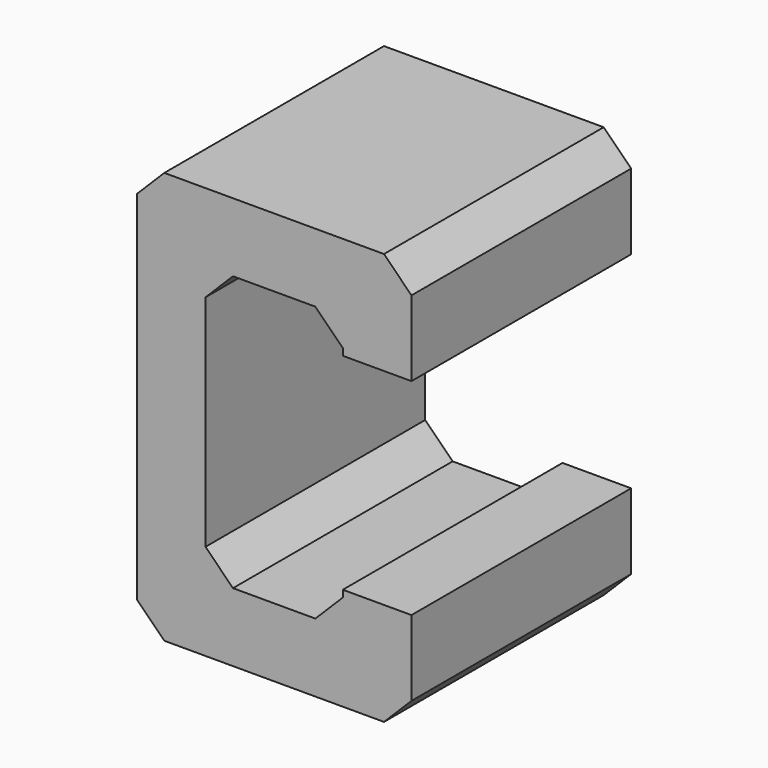
from build123d import *

# Parameters (mm, degrees)
F1_DEPTH = 20
F2_SIZE  = 2


with BuildPart() as f1:
    # F0 (on Front) → F1 (new body)
    with BuildSketch(Plane.XZ):
        Polygon((0, 30), (0, 0), (20, 0), (20, 7.5), (15, 7.5), (15, 5), (5, 5), (5, 25), (15, 25), (15, 22.5), (20, 22.5), (20, 30), align=None)
    extrude(amount=F1_DEPTH)

    # F2
    f2_edges = [f1.edges().sort_by_distance(p)[0] for p in [
        (20, -10, 30),
        (0, -10, 30),
        (20, -10, 0),
        (0, -10, 0),
        (5, -10, 25),
        (5, -10, 5),
        (15, -10, 25),
        (15, -10, 5),
    ]]
    chamfer(f2_edges, length=F2_SIZE)


solid = f1.part
